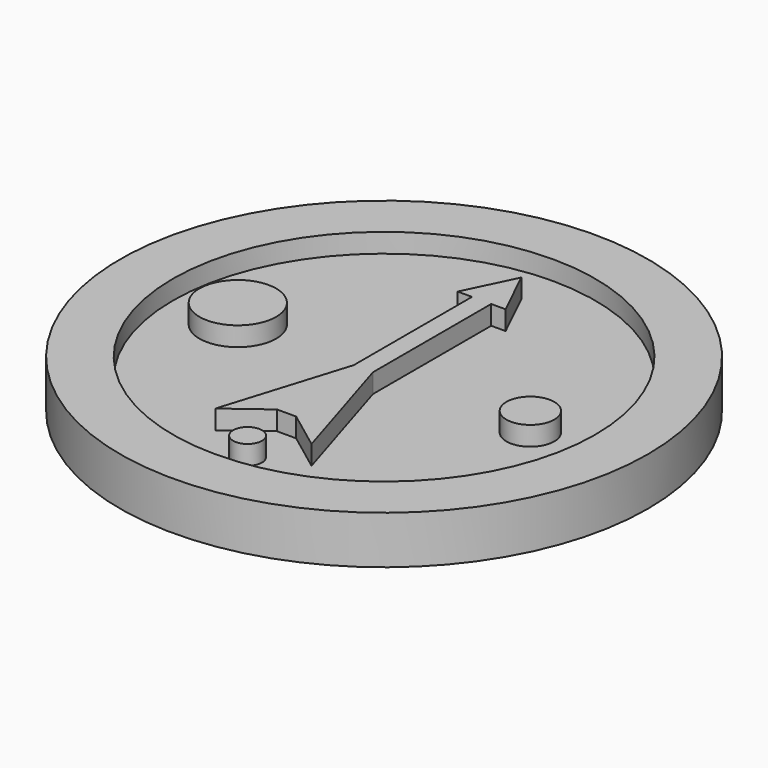
from build123d import *

# Parameters (mm, degrees)
F2_R     = 4
F2_R_2   = 2.5
F2_R_3   = 1.5
F3_DEPTH = 2


with BuildPart() as f1:
    # F0 (on Front) → F1 (revolve)
    with BuildSketch(Plane.XZ):
        Polygon((0, 3), (0, 0), (27.5, 0), (27.5, 5), (22, 5), (22, 3), align=None)
    revolve(axis=Axis((0, 0, 2.453458), (0, 0, -1)))

    # F2 (on face) → F3 (join, through all)
    with BuildSketch(Plane.XY.offset(3)):
        Polygon((1, -2.7), (1, 12.7), (-1, 12.7), (-1, -2.7), (-1, -12.7), (1, -12.7), align=None)
        Polygon((-1, 12.7), (1, 12.7), (2.5, 12.7), (0, 17.86463), (-2.5, 12.7), align=None)
        Polygon((5, -15.7), (1, -2.7), (1, -12.7), align=None)
        Polygon((-1, -12.7), (-1, -2.7), (-5.011446, -15.696473), align=None)
        with Locations((-15.24, 0)):
            Circle(F2_R)
        with Locations((15.24, 0)):
            Circle(F2_R_2)
        with Locations((0, -17.78)):
            Circle(F2_R_3)
    extrude(amount=F3_DEPTH)


solid = f1.part
